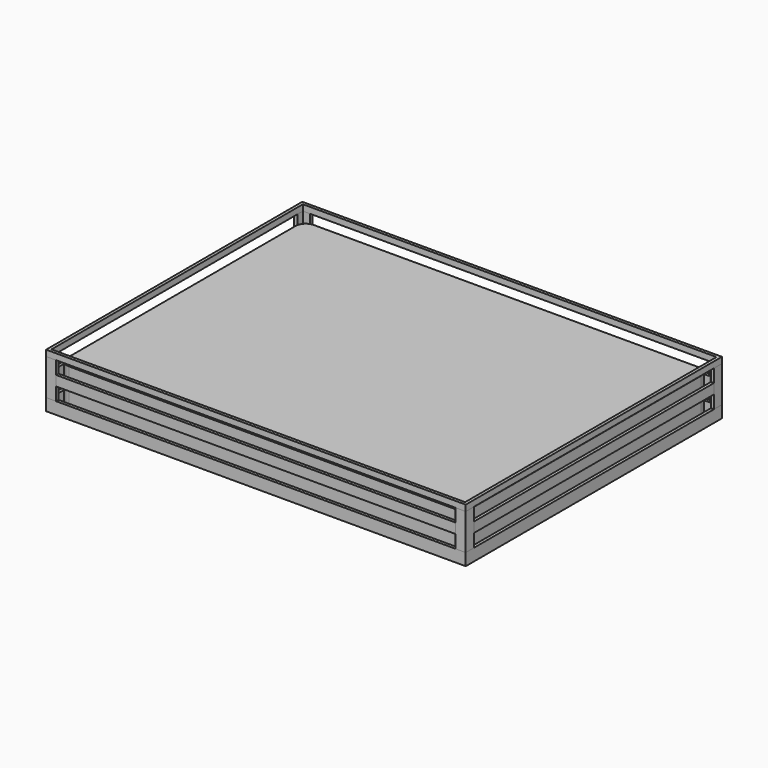
from build123d import *

# Parameters (mm, degrees)
F0_W      = 2020
F0_H      = 1525
F1_DEPTH  = 200
F2_R      = 50
F4_W      = 2090
F4_H      = 1595
F4_W_2    = 2060
F4_H_2    = 1565
F5_DEPTH  = 50
F6_W      = 2090
F6_H      = 1595
F7_DEPTH  = 10
F9_W      = 2090
F9_H      = 1595
F9_W_2    = 2060
F9_H_2    = 1565
F10_DEPTH = 30
F13_DEPTH = 180
F16_W     = 15
F16_H     = 50
F17_DEPTH = 1990
F18_W     = 15
F18_H     = 50
F19_DEPTH = 1495


with BuildPart() as f1:
    # F0 (on Top) → F1 (new body)
    with BuildSketch(Plane.XY):
        Rectangle(F0_W, F0_H)
    extrude(amount=F1_DEPTH)

    # F2
    f2_edges = [f1.edges().sort_by_distance(p)[0] for p in [
        (1010, -762.5, 100),
        (-1010, -762.5, 100),
        (-1010, 762.5, 100),
        (1010, 762.5, 100),
    ]]
    fillet(f2_edges, radius=F2_R)


with BuildPart() as f5:
    # F4 (on face) → F5 (new body)
    with BuildSketch(Plane.XY):
        Rectangle(F4_W, F4_H)
        Rectangle(F4_W_2, F4_H_2, mode=Mode.SUBTRACT)
    extrude(amount=F5_DEPTH)

    # F6 (on Top) → F7 (join)
    with BuildSketch(Plane.XY):
        Rectangle(F6_W, F6_H)
    extrude(amount=-F7_DEPTH)


with BuildPart() as f10:
    # F9 (on offset) → F10 (new body)
    with BuildSketch(Plane.XY.offset(230)):
        Rectangle(F9_W, F9_H)
        Rectangle(F9_W_2, F9_H_2, mode=Mode.SUBTRACT)
    extrude(amount=F10_DEPTH)


with BuildPart() as f13:
    # F12 (on offset) → F13 (new body)
    with BuildSketch(Plane.XY.offset(50)):
        Polygon((-1030, -747.5), (-1045, -747.5), (-1045, -797.5), (-995, -797.5), (-995, -782.5), (-1030, -782.5), align=None)
    extrude(amount=F13_DEPTH)


with BuildPart() as f14_1:
    # F14: instance of F13
    add(f13.part.mirror(Plane.XZ))


with BuildPart() as f15_1:
    # F15: instance of F13
    add(f13.part.mirror(Plane.YZ))


with BuildPart() as f15_2:
    # F15: instance of F14_1
    add(f14_1.part.mirror(Plane.YZ))


with BuildPart() as f17:
    # F16 (on face) → F17 (new body)
    with BuildSketch(Plane(origin=(995, 0, 0), x_dir=(0, -1, 0), z_dir=(-1, 0, 0))):
        with Locations((790, 140)):
            Rectangle(F16_W, F16_H)
    extrude(amount=F17_DEPTH)


with BuildPart() as f19:
    # F18 (on face) → F19 (new body)
    with BuildSketch(Plane(origin=(0, -747.5, 0), x_dir=(-1, 0, 0), z_dir=(0, 1, 0))):
        with Locations((1037.5, 140)):
            Rectangle(F18_W, F18_H)
    extrude(amount=F19_DEPTH)


with BuildPart() as f20_1:
    # F20: instance of F19
    add(f19.part.mirror(Plane.YZ))


with BuildPart() as f21_1:
    # F21: instance of F17
    add(f17.part.mirror(Plane.XZ))


solid = Compound([f1.part, f5.part, f10.part, f13.part, f14_1.part, f15_1.part, f15_2.part, f17.part, f19.part, f20_1.part, f21_1.part])
